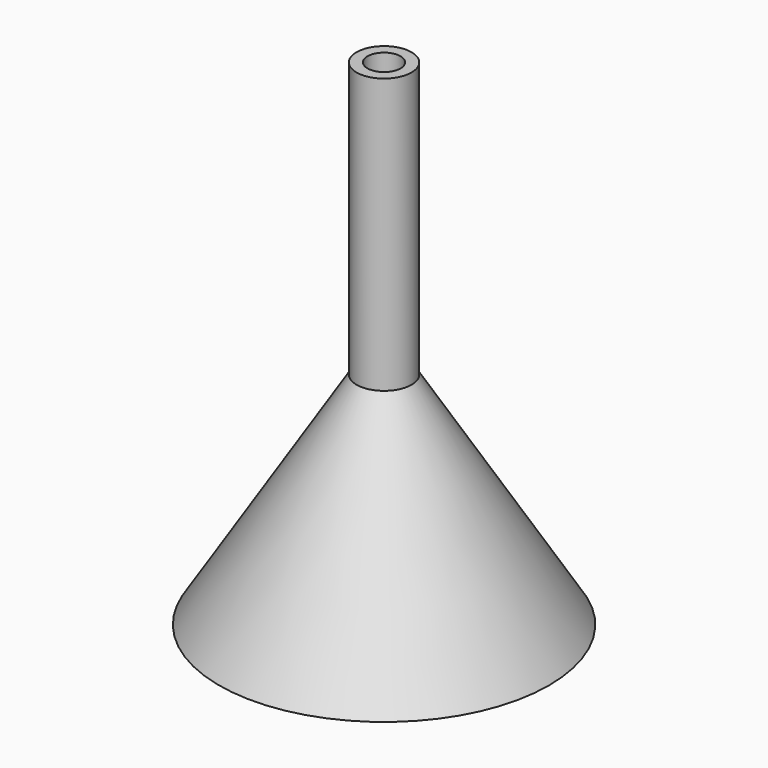
from build123d import *

# Parameters (mm, degrees)
F0_R     = 2.5
F1_DEPTH = 25
F3_R     = 15
F5_T     = -1


with BuildPart() as f1:
    # F0 (on Top) → F1 (new body)
    with BuildSketch(Plane.XY):
        Circle(F0_R)
    extrude(amount=F1_DEPTH)

    # F3 (on offset) → F4 section 0
    with BuildSketch(Plane.XY.offset(-20)):
        Circle(F3_R)
    # F0 (on Top) → F4 section 1
    with BuildSketch(Plane.XY):
        Circle(F0_R)
    loft()

    # F5
    f5_openings = [f1.faces().sort_by_distance(p)[0] for p in [
        (0, 0, 25),
        (0, 0, -20),
    ]]
    offset(amount=F5_T, openings=f5_openings, kind=Kind.INTERSECTION)


solid = f1.part
